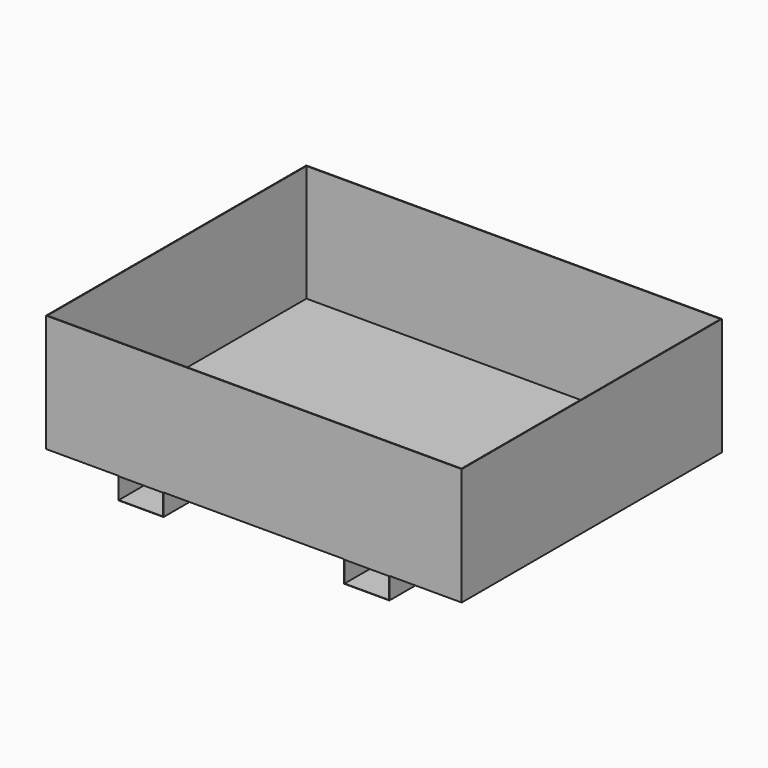
from build123d import *

# Parameters (mm, degrees)
F0_W     = 2300
F0_H     = 1800
F1_DEPTH = 650
F2_T     = -4
F3_W     = 250
F3_H     = 120
F4_DEPTH = 1800
F5_T     = -2


with BuildPart() as f1:
    # F0 (on Top) → F1 (new body)
    with BuildSketch(Plane.XY):
        with Locations((0, 875.160629)):
            Rectangle(F0_W, F0_H)
    extrude(amount=F1_DEPTH)

    # F2
    f2_openings = [f1.faces().sort_by_distance(p)[0] for p in [
        (0, 875.160629, 650),
    ]]
    offset(amount=F2_T, openings=f2_openings)


with BuildPart() as f4:
    # F3 (on face) → F4 (new body, through all)
    with BuildSketch(Plane.XZ.offset(24.839371)):
        with Locations((625, -60)):
            Rectangle(F3_W, F3_H)
    extrude(amount=-F4_DEPTH)

    # F5
    f5_openings = [f4.faces().sort_by_distance(p)[0] for p in [
        (625, -24.839371, -60),
        (625, 1775.160629, -60),
    ]]
    offset(amount=F5_T, openings=f5_openings)


with BuildPart() as f6_1:
    # F6: instance of F4
    add(f4.part.mirror(Plane.YZ))


solid = Compound([f1.part, f4.part, f6_1.part])
